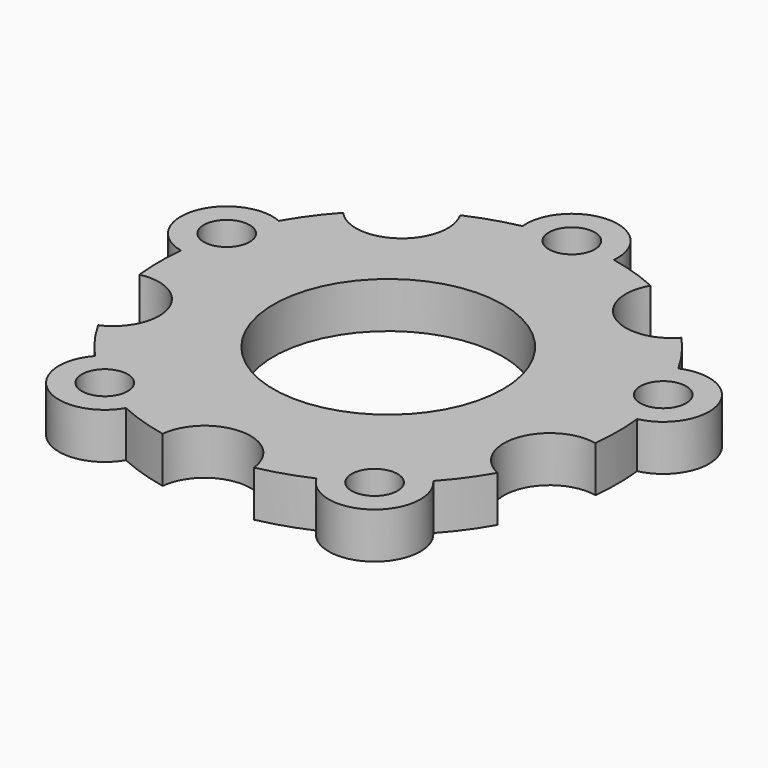
from build123d import *

# Parameters (mm, degrees)
SKETCH_R              = 50
SKETCH_R_2            = 25
PAD_DEPTH             = 10
SKETCH001_R           = 10
PAD001_DEPTH          = 10
POLARPATTERN_COUNT    = 5
SKETCH002_R           = 5
SKETCH002_R_2         = 10
POCKET_DEPTH          = 329.680222
POLARPATTERN001_COUNT = 5


with BuildPart() as part:
    # Sketch → Pad (new body)
    with BuildSketch(Plane.XY):
        Circle(SKETCH_R)
        Circle(SKETCH_R_2, mode=Mode.SUBTRACT)
    extrude(amount=PAD_DEPTH)

    # Sketch001 → Pad001 (join)
    with BuildSketch(Plane.XY):
        with Locations((0, 50)):
            Circle(SKETCH001_R)
    pad001 = extrude(amount=PAD001_DEPTH)

    # PolarPattern: Pad001 ×5 about axis
    polarpattern_axis = Axis((0, 0, 0), (0, 0, 1))
    for i in range(1, POLARPATTERN_COUNT):
        add(pad001.rotate(polarpattern_axis, i * 360 / POLARPATTERN_COUNT))

    # Sketch002 (on Face9 of PolarPattern) → Pocket (cut, through all)
    with BuildSketch(Plane.XY.offset(10)):
        with Locations((-1e-06, 50)):
            Circle(SKETCH002_R)
        with Locations((-6e-05, -50)):
            Circle(SKETCH002_R_2)
    pocket = extrude(amount=-POCKET_DEPTH, mode=Mode.SUBTRACT)

    # PolarPattern001: Pocket ×5 about axis
    polarpattern001_axis = Axis((0, 0, 10), (0, 0, 1))
    for i in range(1, POLARPATTERN001_COUNT):
        add(pocket.rotate(polarpattern001_axis, i * 360 / POLARPATTERN001_COUNT), mode=Mode.SUBTRACT)


solid = part.part
